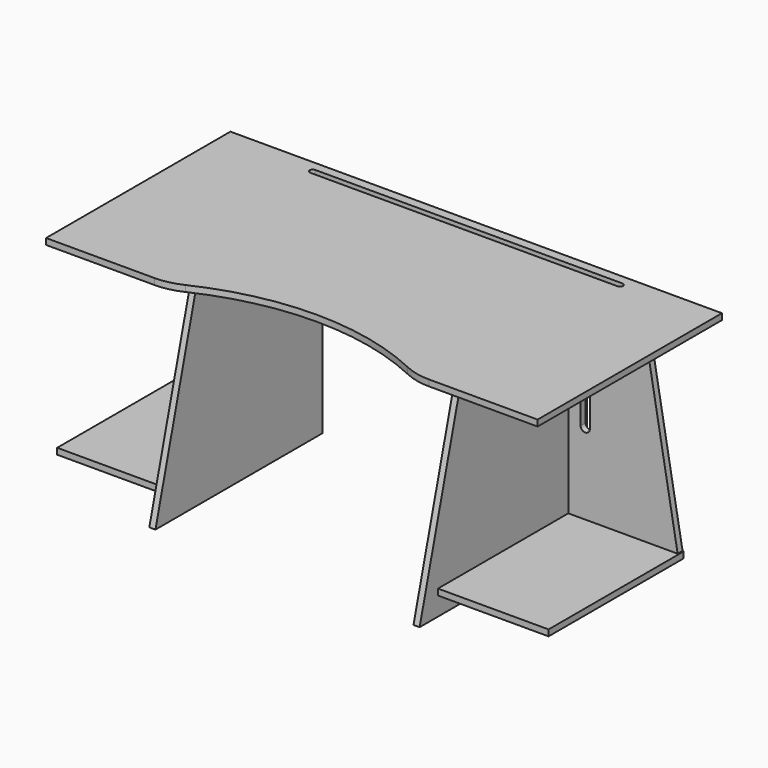
from build123d import *

# Parameters (mm, degrees)
F1_DEPTH  = 20
F3_START  = -420
F3_DEPTH  = 20
F5_START  = 420
F5_DEPTH  = 20
F7_START  = -200
F6_W      = 840
F6_H      = 300
F7_DEPTH  = 21
F9_START  = -200
F9_DEPTH  = 20
F11_START = -440
F10_W     = 550
F10_H     = 20
F11_DEPTH = 360
F13_DEPTH = 61
F15_DEPTH = 20
F17_DEPTH = 20
F19_START = 440
F18_W     = 550
F18_H     = 20
F19_DEPTH = 360
F21_DEPTH = 20
F23_DEPTH = 21
F24_DEPTH = 21


with BuildPart() as f1:
    # F0 (on Top) → F1 (new body)
    with BuildSketch(Plane.XY):
        with BuildLine():
            Line((447.2135955, -375), (800, -375))
            Line((800, -375), (800, 375))
            Line((800, 375), (-800, 375))
            Line((-800, 375), (-800, -375))
            Line((-800, -375), (-447.2135955, -375))
            ThreePointArc((-447.2135955, -375), (-403.5700174528, -370.1800145897), (-362.0300535, -355.9523809524))
            ThreePointArc((-362.0300535, -355.9523809524), (0, -275), (362.0300535, -355.9523809524))
            ThreePointArc((362.0300535, -355.9523809524), (403.5700174528, -370.1800145897), (447.2135955, -375))
        make_face()
    extrude(amount=F1_DEPTH)

    # F4 (on Right) → F5 (join)
    with BuildSketch(Plane.YZ.offset(F5_START)):
        Polygon((275, 0), (-225, 0), (-405, -680), (275, -680), align=None)
    extrude(amount=F5_DEPTH)

    # F14 (on face) → F15 (cut, through all)
    with BuildSketch(Plane.XY.offset(20)):
        with BuildLine():
            Line((500, 345), (-500, 345))
            ThreePointArc((-500, 345), (-510, 335), (-500, 325))
            Line((-500, 325), (500, 325))
            ThreePointArc((500, 325), (510, 335), (500, 345))
        make_face()
    extrude(amount=-F15_DEPTH, mode=Mode.SUBTRACT)

    # F16 (on face) → F17 (join)
    with BuildSketch(Plane.XZ.offset(-200)):
        Polygon((690, 0), (440, 0), (440, -599.4818952843), (795.8823083662, -599.4818952843), align=None)
    extrude(amount=-F17_DEPTH)

    # F18 (on Right) → F19 (join)
    with BuildSketch(Plane.YZ.offset(F19_START)):
        with Locations((-55.3809798328, -609.4818952843)):
            Rectangle(F18_W, F18_H)
    extrude(amount=F19_DEPTH)

    # F20 (on face) → F21 (cut, through all)
    with BuildSketch(Plane.XZ.offset(-200)):
        with BuildLine():
            ThreePointArc((510, -135.0222993022), (495, -120.0222993022), (480, -135.0222993022))
            Line((480, -135.0222993022), (480, -335.0222993022))
            ThreePointArc((480, -335.0222993022), (495, -350.0222993022), (510, -335.0222993022))
            Line((510, -335.0222993022), (510, -135.0222993022))
        make_face()
    extrude(amount=-F21_DEPTH, mode=Mode.SUBTRACT)


with BuildPart() as f3:
    # F2 (on Right) → F3 (new body)
    with BuildSketch(Plane.YZ.offset(F3_START)):
        Polygon((275, -680), (275, 0), (-225, 0), (-405, -680), align=None)
    extrude(amount=-F3_DEPTH)

    # F10 (on Right) → F11 (join)
    with BuildSketch(Plane.YZ.offset(F11_START)):
        with Locations((-54.7264778555, -609.5014810562)):
            Rectangle(F10_W, F10_H)
    extrude(amount=-F11_DEPTH)


with BuildPart() as f7:
    # F6 (on Front) → F7 (new body)
    with BuildSketch(Plane.XZ.offset(F7_START)):
        with Locations((0, -150)):
            Rectangle(F6_W, F6_H)
    extrude(amount=-F7_DEPTH)

    # F22 (on face) → F23 (cut, through all)
    with BuildSketch(Plane(origin=(0, 221, 0), x_dir=(-1, 0, 0), z_dir=(0, 1, 0))):
        with BuildLine():
            Line((-178.6368364096, -60), (-328.6368364096, -60))
            ThreePointArc((-328.6368364096, -60), (-339.9782086297, -69.2952157691), (-329.9564645399, -80))
            Line((-329.9564645399, -80), (-177.3172082792, -80))
            ThreePointArc((-177.3172082792, -80), (-167.2954641894, -69.2952157691), (-178.6368364096, -60))
        make_face()
    extrude(amount=-F23_DEPTH, mode=Mode.SUBTRACT)

    # F22 (on face) → F24 (cut, through all)
    with BuildSketch(Plane(origin=(0, 221, 0), x_dir=(-1, 0, 0), z_dir=(0, 1, 0))):
        with BuildLine():
            Line((75.6598140652, -79.9999982119), (-75.6598140652, -59.9999982119))
            ThreePointArc((-75.6598140652, -59.9999982119), (-87.0011862853, -69.295213981), (-76.9794421956, -79.9999982119))
            Line((-76.9794421956, -79.9999982119), (75.6598140652, -79.9999982119))
        make_face()
        with BuildLine():
            Line((74.3401859348, -59.9999982119), (-75.6598140652, -59.9999982119))
            Line((-75.6598140652, -59.9999982119), (75.6598140652, -79.9999982119))
            ThreePointArc((75.6598140652, -79.9999982119), (85.6815581549, -69.295213981), (74.3401859348, -59.9999982119))
        make_face()
        with BuildLine():
            Line((328.6368364096, -60.0435336719), (178.6368364096, -60.0435336719))
            ThreePointArc((178.6368364096, -60.0435336719), (167.2954641894, -69.3387494411), (177.3172082792, -80.0435336719))
            Line((177.3172082792, -80.0435336719), (329.9564645399, -80.0435336719))
            ThreePointArc((329.9564645399, -80.0435336719), (339.9782086297, -69.338749441), (328.6368364096, -60.0435336719))
        make_face()
    extrude(amount=-F24_DEPTH, mode=Mode.SUBTRACT)


with BuildPart() as f9:
    # F8 (on Front) → F9 (new body)
    with BuildSketch(Plane.XZ.offset(F9_START)):
        Polygon((-438.7253674408, -599.4818952843), (-438.7253674408, 0), (-688.7253674408, 0), (-794.607675807, -599.4818952843), align=None)
    extrude(amount=-F9_DEPTH)

    # F12 (on face) → F13 (cut)
    with BuildSketch(Plane.XZ.offset(-200)):
        with BuildLine():
            ThreePointArc((-480, -136.4627885793), (-495, -121.4627885793), (-510, -136.4627885793))
            Line((-510, -136.4627885793), (-510, -336.4627885793))
            ThreePointArc((-510, -336.4627885793), (-495, -351.4627885793), (-480, -336.4627885793))
            Line((-480, -336.4627885793), (-480, -136.4627885793))
        make_face()
    extrude(amount=-F13_DEPTH, mode=Mode.SUBTRACT)


solid = Compound([f1.part, f3.part, f7.part, f9.part])
